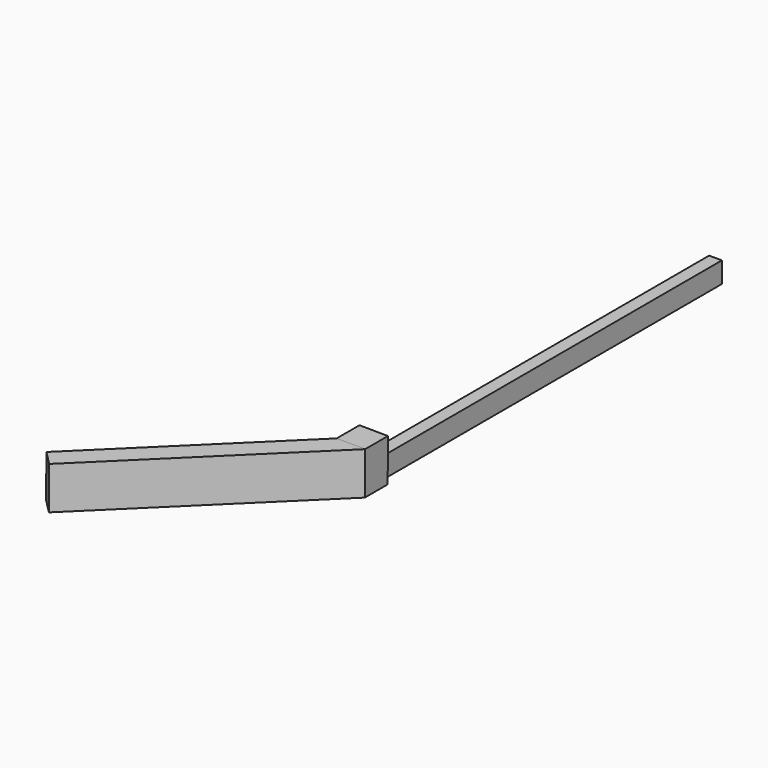
from build123d import *

# Parameters (mm, degrees)
F0_W     = 4.5
F0_H     = 150
F1_DEPTH = 7.3
F3_DEPTH = 10
F5_DEPTH = 15


with BuildPart() as f1:
    # F0 (on Top) → F1 (new body)
    with BuildSketch(Plane.XY):
        Rectangle(F0_W, F0_H)
    extrude(amount=F1_DEPTH)

    # F2 (on face) → F3 (join)
    with BuildSketch(Plane.XZ.offset(75)):
        Polygon((-2.25, 0.016098), (0, 0), (2.25, 0), (2.25, 7.3), (-2.25, 7.3), align=None)
        Polygon((4.999872, -0.035773), (5.107192, 14.963843), (-4.892552, 15.035389), (-4.999872, 0.035773), (-2.25, 0.016098), (-2.25, 7.3), (2.25, 7.3), (2.25, 0), (0, 0), align=None)
    extrude(amount=F3_DEPTH)

    # F4 (on face) → F5 (join)
    with BuildSketch(Plane(origin=(0.10732, 0, 14.999616), x_dir=(0.999974, 0, -0.007155), z_dir=(0.007155, 0, 0.999974))):
        Polygon((5, -85), (-5, -85), (-61.568542, -141.568542), (-56.568542, -146.568542), align=None)
    extrude(amount=-F5_DEPTH)


solid = f1.part
